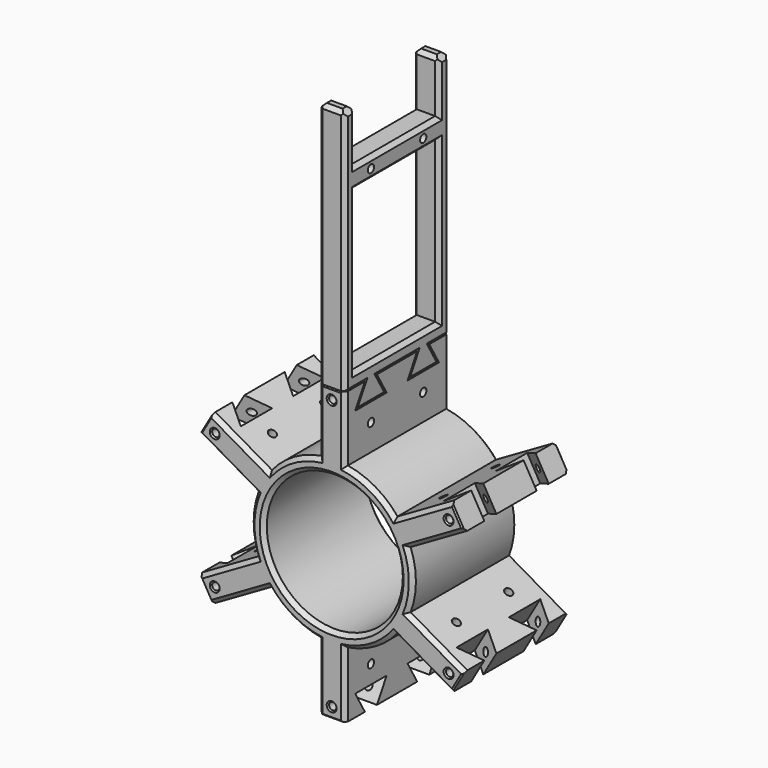
from build123d import *

# Parameters (mm, degrees)
F0_R      = 31
F0_R_2    = 26
F1_DEPTH  = 50
F3_DEPTH  = 50
F5_DEPTH  = 25
F6_R      = 1.4
F7_DEPTH  = 50.001
F8_R      = 1.5
F9_DEPTH  = 25
F10_COUNT = 6
F12_DEPTH = 10
F13_W     = 40
F13_H     = 20
F13_H_2   = 61.2058829184
F13_R     = 1.5
F14_DEPTH = 25
F15_R     = 1.4
F16_DEPTH = 50.001
F18_SIZE  = 1.5
F19_SIZE  = 1.5
F20_SIZE  = 1.5
F21_SIZE  = 1.5
F23_SIZE  = 0.5
F24_SIZE  = 0.5
F25_SIZE  = 2


with BuildPart() as f1:
    # F0 (on Front) → F1 (new body)
    with BuildSketch(Plane.XZ):
        Circle(F0_R)
        Circle(F0_R_2, mode=Mode.SUBTRACT)
    extrude(amount=F1_DEPTH)

    # F2 (on face) → F3 (join)
    with BuildSketch(Plane(origin=(0, 0, 0), x_dir=(-1, 0, 0), z_dir=(0, 1, 0))):
        with BuildLine():
            Line((-5, 55.5941170816), (-5, 30.5941170816))
            ThreePointArc((-5, 30.5941170816), (0, 31), (5, 30.5941170816))
            Line((5, 30.5941170816), (5, 55.5941170816))
            Line((5, 55.5941170816), (-5, 55.5941170816))
        make_face()
    extrude(amount=-F3_DEPTH)

    # F4 (on face) → F5 (cut)
    with BuildSketch(Plane.YZ.offset(5)):
        Polygon((-34.6188021535, 55.5941170816), (-40.3811978465, 55.5941170816), (-45, 47.5941170816), (-30, 47.5941170816), align=None)
        Polygon((-9.6188021535, 55.5941170816), (-15.3811978465, 55.5941170816), (-20, 47.5941170816), (-5, 47.5941170816), align=None)
    extrude(amount=-F5_DEPTH, mode=Mode.SUBTRACT)

    # F6 (on face) → F7 (cut, through all)
    with BuildSketch(Plane(origin=(0, 0, 0), x_dir=(-1, 0, 0), z_dir=(0, 1, 0))):
        with Locations((0, 51.5941170816)):
            Circle(F6_R)
    extrude(amount=-F7_DEPTH, mode=Mode.SUBTRACT)

    # F8 (on face) → F9 (cut)
    with BuildSketch(Plane(origin=(-5, 0, 0), x_dir=(0, -1, 0), z_dir=(-1, 0, 0))):
        with Locations((12.5, 40.5941170816)):
            Circle(F8_R)
        with Locations((37.5, 40.5941170816)):
            Circle(F8_R)
    extrude(amount=-F9_DEPTH, mode=Mode.SUBTRACT)

    # F10: F1 ×6 about axis
    f10_axis = Axis((0, -50, 0), (0, -1, 0))


with BuildPart() as f1_1:
    add(f1.part)
    for i in range(1, F10_COUNT):
        add(f1.part.rotate(f10_axis, i * 360 / F10_COUNT))

    # F18
    f18_edges = [f1_1.edges().sort_by_distance(p)[0] for p in [
        (-15.5, -50, 26.846788),
        (-5, -50, 43.094117),
        (5, -50, 43.094117),
        (15.5, -50, 26.846788),
        (34.8206, -50, 25.877186),
        (39.8206, -50, 17.216932),
        (31, -50, 0),
        (39.8206, -50, -17.216932),
        (34.8206, -50, -25.877186),
        (15.5, -50, -26.846788),
        (5, -50, -43.094117),
        (-5, -50, -43.094117),
        (-15.5, -50, -26.846788),
        (-34.8206, -50, -25.877186),
        (-39.8206, -50, -17.216932),
        (-31, -50, 0),
        (-39.8206, -50, 17.216932),
        (-34.8206, -50, 25.877186),
        (-26, -50, 0),
    ]]
    chamfer(f18_edges, length=F18_SIZE)

    # F19
    f19_edges = [f1_1.edges().sort_by_distance(p)[0] for p in [
        (34.8206, 0, 25.877186),
        (15.5, 0, 26.846788),
        (5, 0, 43.094117),
        (-5, 0, 43.094117),
        (-15.5, 0, 26.846788),
        (-34.8206, 0, 25.877186),
        (-39.8206, 0, 17.216932),
        (-31, 0, 0),
        (-39.8206, 0, -17.216932),
        (-34.8206, 0, -25.877186),
        (-5, 0, -43.094117),
        (-15.5, 0, -26.846788),
        (5, 0, -43.094117),
        (15.5, 0, -26.846788),
        (34.8206, 0, -25.877186),
        (39.8206, 0, -17.216932),
        (31, 0, 0),
        (39.8206, 0, 17.216932),
        (-26, 0, 0),
    ]]
    chamfer(f19_edges, length=F19_SIZE)

    # F24
    f24_edges = [f1_1.edges().sort_by_distance(p)[0] for p in [
        (0, 0, 55.594117),
        (-48.145918, 0, 27.797059),
        (-48.145918, 0, -27.797059),
        (0, 0, -55.594117),
        (48.145918, 0, -27.797059),
        (48.145918, 0, 27.797059),
        (48.145918, -50, -27.797059),
        (48.145918, -50, 27.797059),
        (0, -50, 55.594117),
        (-48.145918, -50, 27.797059),
        (-48.145918, -50, -27.797059),
        (0, -50, -55.594117),
        (-1.4, -50, -51.594117),
        (-45.381816, -50, -24.584623),
        (-43.981816, -50, 27.009494),
        (1.4, -50, 51.594117),
        (45.381816, -50, 24.584623),
        (43.981816, -50, -27.009494),
        (43.981816, 0, -27.009494),
        (45.381816, 0, 24.584623),
        (1.4, 0, 51.594117),
        (-43.981816, 0, 27.009494),
        (-45.381816, 0, -24.584623),
        (-1.4, 0, -51.594117),
    ]]
    chamfer(f24_edges, length=F24_SIZE)


with BuildPart() as f12:
    # F11 (on face) → F12 (new body)
    with BuildSketch(Plane(origin=(-5, 0, 0), x_dir=(0, -1, 0), z_dir=(-1, 0, 0))):
        Polygon((0, 150), (0, 55.7941170816), (9.965212315, 55.7941170816), (15.034787685, 55.7941170816), (34.965212315, 55.7941170816), (40.034787685, 55.7941170816), (50, 55.7941170816), (50, 150), align=None)
        Polygon((15.034787685, 55.7941170816), (9.965212315, 55.7941170816), (5.3464101615, 47.7941170816), (19.6535898385, 47.7941170816), align=None)
        Polygon((40.034787685, 55.7941170816), (34.965212315, 55.7941170816), (30.3464101615, 47.7941170816), (44.6535898385, 47.7941170816), align=None)
    extrude(amount=-F12_DEPTH)

    # F13 (on face) → F14 (cut)
    with BuildSketch(Plane(origin=(-5, 0, 0), x_dir=(0, -1, 0), z_dir=(-1, 0, 0))):
        with Locations((25, 140)):
            Rectangle(F13_W, F13_H)
        with Locations((25, 91.3970585408)):
            Rectangle(F13_W, F13_H_2)
        with Locations((12.5, 126)):
            Circle(F13_R)
        with Locations((37.5, 126)):
            Circle(F13_R)
    extrude(amount=-F14_DEPTH, mode=Mode.SUBTRACT)

    # F15 (on face) → F16 (cut, through all)
    with BuildSketch(Plane(origin=(0, 0, 0), x_dir=(-1, 0, 0), z_dir=(0, 1, 0))):
        with Locations((0, 51.5941170816)):
            Circle(F15_R)
    extrude(amount=-F16_DEPTH, mode=Mode.SUBTRACT)

    # F20
    f20_edges = [f12.edges().sort_by_distance(p)[0] for p in [
        (-5, 0, 102.897059),
        (-5, -5, 91.397059),
        (-5, -25, 122),
        (-5, -45, 91.397059),
        (-5, -25, 60.794117),
        (-5, -25, 130),
        (-5, -5, 140),
        (-5, -45, 140),
        (5, -50, 102.897059),
        (-5, -50, 102.897059),
        (5, -25, 122),
        (5, -45, 91.397059),
        (5, -25, 60.794117),
        (5, 0, 102.897059),
        (5, -5, 91.397059),
        (5, -25, 130),
        (5, -45, 140),
        (5, -5, 140),
    ]]
    chamfer(f20_edges, length=F20_SIZE)

    # F21
    f21_edges = [f12.edges().sort_by_distance(p)[0] for p in [
        (0, 0, 150),
        (0, -5, 150),
        (0, -45, 150),
        (0, -50, 150),
    ]]
    chamfer(f21_edges, length=F21_SIZE)

    # F23
    f23_edges = [f12.edges().sort_by_distance(p)[0] for p in [
        (-5, -7.655811, 51.794117),
        (-5, -12.5, 47.794117),
        (-5, -17.344189, 51.794117),
        (-5, -25, 55.794117),
        (-5, -5.732606, 55.794117),
        (-5, -44.267394, 55.794117),
        (-5, -42.344189, 51.794117),
        (-5, -37.5, 47.794117),
        (-5, -32.655811, 51.794117),
        (5, -44.267394, 55.794117),
        (5, -42.344189, 51.794117),
        (5, -37.5, 47.794117),
        (5, -32.655811, 51.794117),
        (5, -25, 55.794117),
        (5, -17.344189, 51.794117),
        (5, -12.5, 47.794117),
        (5, -7.655811, 51.794117),
        (5, -5.732606, 55.794117),
    ]]
    chamfer(f23_edges, length=F23_SIZE)

    # F25
    f25_edges = [f12.edges().sort_by_distance(p)[0] for p in [
        (5, -47.5, 150),
        (5, -2.5, 150),
        (-5, -47.5, 150),
        (-5, -2.5, 150),
    ]]
    chamfer(f25_edges, length=F25_SIZE)


solid = Compound([f1_1.part, f12.part])
